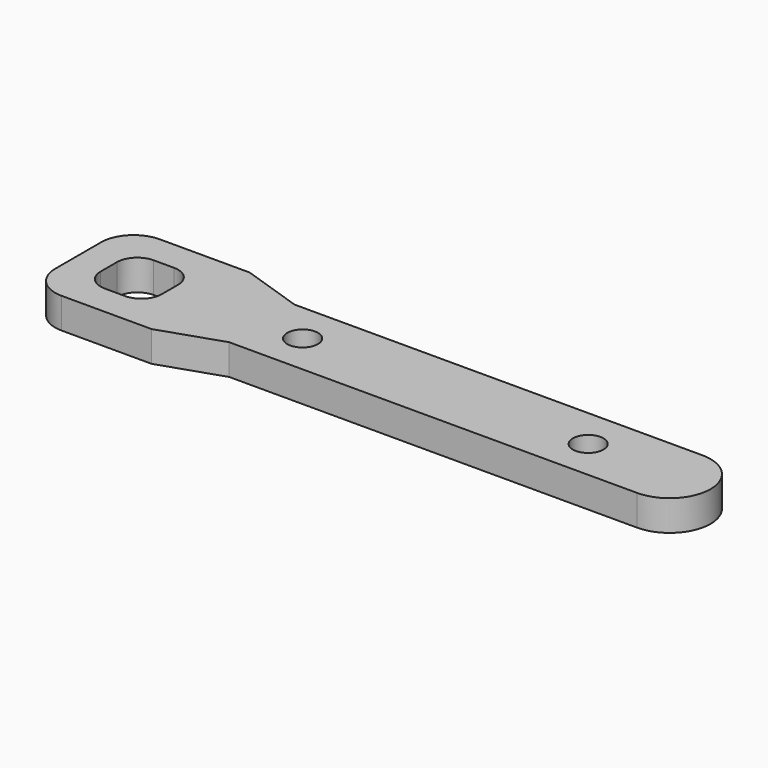
from build123d import *

# Parameters (mm, degrees)
F0_W     = 9.525
F0_H     = 9.525
F0_R     = 2.38125
F1_DEPTH = 4.7625
F2_R     = 5.08
F3_R     = 3.175


with BuildPart() as f1:
    # F0 (on Top) → F1 (new body)
    with BuildSketch(Plane.XY):
        with BuildLine():
            ThreePointArc((-6.35, -6.35), (0, 0), (-6.35, 6.35))
            Line((-6.35, 6.35), (-69.85, 6.35))
            Line((-69.85, 6.35), (-79.375, 9.5377))
            Line((-79.375, 9.5377), (-98.4504, 9.5377))
            Line((-98.4504, 9.5377), (-98.4504, -9.5377))
            Line((-98.4504, -9.5377), (-79.375, -9.5377))
            Line((-79.375, -9.5377), (-69.85, -6.35))
            Line((-69.85, -6.35), (-6.35, -6.35))
        make_face()
        with Locations((-88.9127, 0)):
            Rectangle(F0_W, F0_H, mode=Mode.SUBTRACT)
        with Locations((-63.5, 0)):
            Circle(F0_R, mode=Mode.SUBTRACT)
        with Locations((-19.05, 0)):
            Circle(F0_R, mode=Mode.SUBTRACT)
    extrude(amount=F1_DEPTH)

    # F2
    f2_edges = [f1.edges().sort_by_distance(p)[0] for p in [
        (-98.4504, 9.5377, 2.38125),
        (-98.4504, -9.5377, 2.38125),
    ]]
    fillet(f2_edges, radius=F2_R)

    # F3
    f3_edges = [f1.edges().sort_by_distance(p)[0] for p in [
        (-84.1502, -4.7625, 2.38125),
        (-84.1502, 4.7625, 2.38125),
        (-93.6752, 4.7625, 2.38125),
        (-93.6752, -4.7625, 2.38125),
    ]]
    fillet(f3_edges, radius=F3_R)


solid = f1.part
